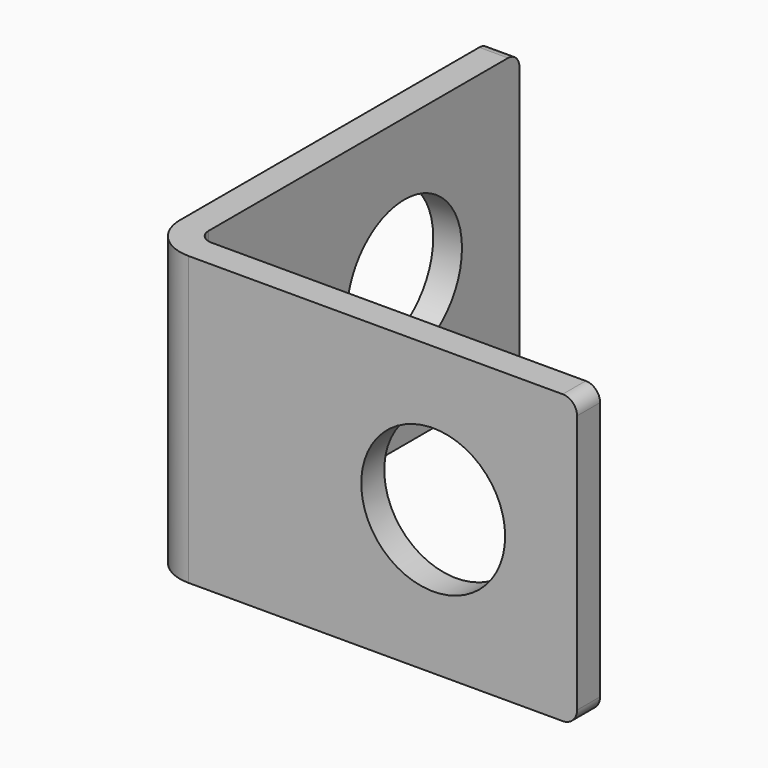
from build123d import *

# Parameters (mm, degrees)
F1_DEPTH = 20
F2_R     = 5
F4_DEPTH = 2
F3_R     = 5
F5_DEPTH = 2
F6_W     = 5
F6_H     = 4
F7_DEPTH = 2
F8_R     = 3
F9_R     = 1


with BuildPart() as f1:
    # F0 (on Top) → F1 (new body)
    with BuildSketch(Plane.XY):
        Polygon((0, 0), (30, 0), (30, 2), (2, 2), (2, 30), (0, 30), align=None)
    extrude(amount=F1_DEPTH)

    # F2 (on face) → F4 (cut, through all)
    with BuildSketch(Plane.XZ):
        with Locations((20, 10)):
            Circle(F2_R)
    extrude(amount=-F4_DEPTH, mode=Mode.SUBTRACT)

    # F3 (on face) → F5 (cut, through all)
    with BuildSketch(Plane.YZ.offset(2)):
        with Locations((20, 10)):
            Circle(F3_R)
    extrude(amount=-F5_DEPTH, mode=Mode.SUBTRACT)

    # F6 (on face) → F7 (cut, through all)
    with BuildSketch(Plane.YZ.offset(2)):
        with Locations((7.5, 2)):
            Rectangle(F6_W, F6_H)
    extrude(amount=-F7_DEPTH, mode=Mode.SUBTRACT)

    # F8
    f8_edges = [f1.edges().sort_by_distance(p)[0] for p in [
        (0, 0, 10),
    ]]
    fillet(f8_edges, radius=F8_R)

    # F9
    f9_edges = [f1.edges().sort_by_distance(p)[0] for p in [
        (2, 2, 10),
        (30, 1, 0),
        (30, 1, 20),
        (1, 30, 0),
        (1, 30, 20),
    ]]
    fillet(f9_edges, radius=F9_R)


solid = f1.part
